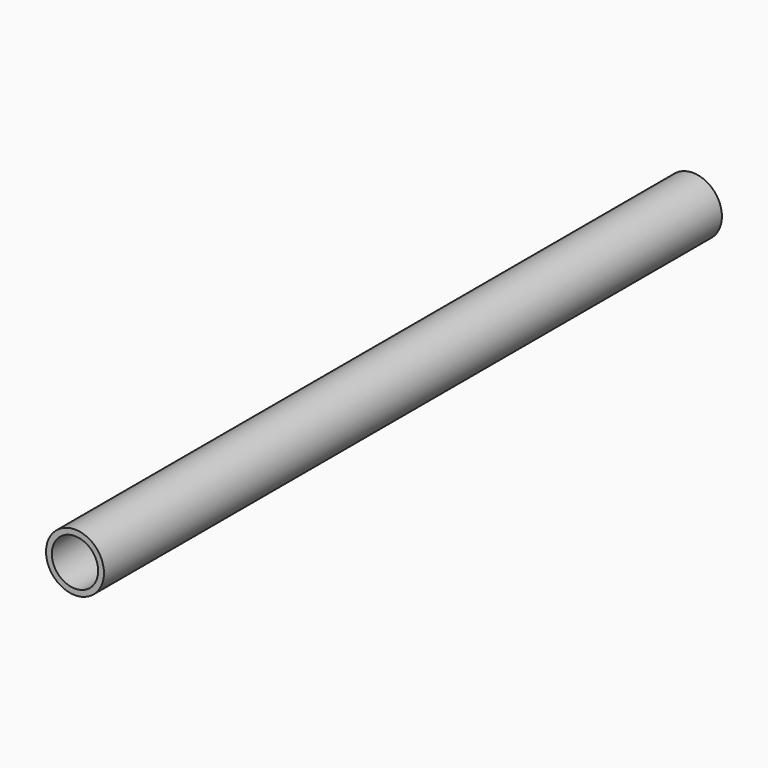
from build123d import *

# Parameters (mm, degrees)
F0_R     = 0.75
F1_DEPTH = 20
F2_R     = 0.6
F3_DEPTH = 3
F4_R     = 0.33
F5_DEPTH = 7
F6_R     = 0.235
F7_DEPTH = 7
F8_R     = 0.435
F9_DEPTH = 3


with BuildPart() as f1:
    # F0 (on Front) → F1 (new body)
    with BuildSketch(Plane.XZ):
        Circle(F0_R)
    extrude(amount=F1_DEPTH)

    # F2 (on face) → F3 (cut)
    with BuildSketch(Plane.XZ.offset(20)):
        Circle(F2_R)
    extrude(amount=-F3_DEPTH, mode=Mode.SUBTRACT)

    # F4 (on face) → F5 (cut)
    with BuildSketch(Plane.XZ.offset(17)):
        Circle(F4_R)
    extrude(amount=-F5_DEPTH, mode=Mode.SUBTRACT)

    # F6 (on face) + F4 (on face) → F7 (cut)
    with BuildSketch(Plane.XZ.offset(10)):
        Circle(F6_R)
    with BuildSketch(Plane.XZ.offset(17)):
        Circle(F4_R)
    extrude(amount=-F7_DEPTH, mode=Mode.SUBTRACT)

    # F8 (on face) → F9 (cut)
    with BuildSketch(Plane(origin=(0, 0, 0), x_dir=(-1, 0, 0), z_dir=(0, 1, 0))):
        Circle(F8_R)
    extrude(amount=-F9_DEPTH, mode=Mode.SUBTRACT)


solid = f1.part
